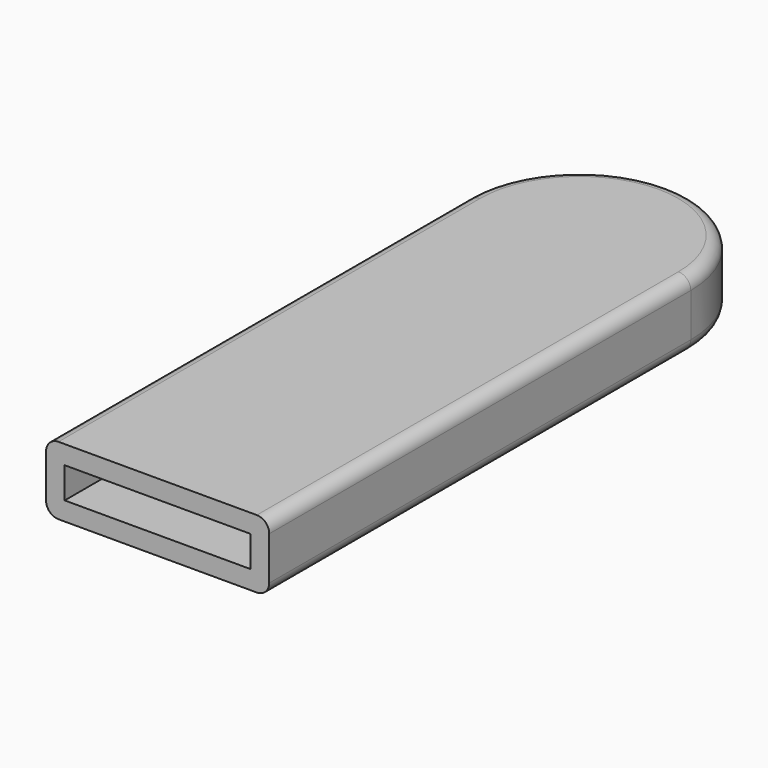
from build123d import *

# Parameters (mm, degrees)
F1_DEPTH = 11
F2_T     = -3
F3_R     = 2
F4_R     = 2


with BuildPart() as f1:
    # F0 (on Top) → F1 (new body)
    with BuildSketch(Plane.XY):
        with BuildLine():
            Line((21.98791, -21.934712), (21.98791, 63.065288))
            ThreePointArc((21.98791, 63.065288), (3.98791, 81.065288), (-14.01209, 63.065288))
            Line((-14.01209, 63.065288), (-14.01209, -21.934712))
            Line((-14.01209, -21.934712), (21.98791, -21.934712))
        make_face()
    extrude(amount=F1_DEPTH)

    # F2
    f2_openings = [f1.faces().sort_by_distance(p)[0] for p in [
        (3.98791, -21.934712, 5.5),
    ]]
    offset(amount=F2_T, openings=f2_openings)

    # F3
    f3_edges = [f1.edges().sort_by_distance(p)[0] for p in [
        (-14.01209, 20.565288, 11),
        (3.98791, 81.065288, 11),
        (21.98791, 20.565288, 11),
    ]]
    fillet(f3_edges, radius=F3_R)

    # F4
    f4_edges = [f1.edges().sort_by_distance(p)[0] for p in [
        (-14.01209, 20.565288, 0),
        (21.98791, 20.565288, 0),
        (3.98791, 81.065288, 0),
    ]]
    fillet(f4_edges, radius=F4_R)


solid = f1.part
